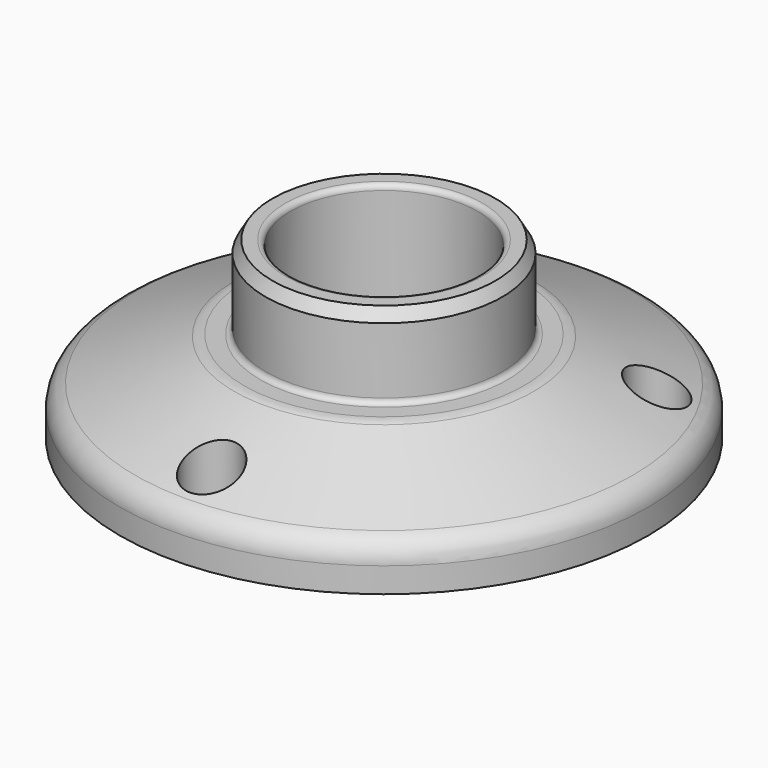
from build123d import *

# Parameters (mm, degrees)
F3_SIZE2 = 1.3198227154
F3_SIZE  = 2.286
F4_R     = 3.1115
F5_DEPTH = 33.3512
F7_R     = 5.1816
F8_DEPTH = 29.3888


with BuildPart() as f2:
    # F0 (on Front) → F2 (revolve)
    with BuildSketch(Plane.XZ):
        with BuildLine():
            Line((-50.419, 0), (-28.8671, 0))
            ThreePointArc((-28.8671, 0), (-27.2506538982, 0.6695538982), (-26.5811, 2.286))
            Line((-26.5811, 2.286), (-26.5811, 8.509))
            ThreePointArc((-26.5811, 8.509), (-26.2835204897, 9.2274204897), (-25.5651, 9.525))
            Line((-25.5651, 9.525), (-22.5413968422, 9.525))
            ThreePointArc((-22.5413968422, 9.525), (-22.1525904749, 9.602338395), (-21.8229763525, 9.8225795103))
            Line((-21.8229763525, 9.8225795103), (-18.1283795103, 13.5171763525))
            ThreePointArc((-18.1283795103, 13.5171763525), (-17.908138395, 13.8467904749), (-17.8308, 14.2355968422))
            Line((-17.8308, 14.2355968422), (-17.8308, 32.3342))
            ThreePointArc((-17.8308, 32.3342), (-18.1283795103, 33.0526204897), (-18.8468, 33.3502))
            Line((-18.8468, 33.3502), (-22.606, 33.3502))
            Line((-22.606, 33.3502), (-22.606, 18.4912))
            ThreePointArc((-22.606, 18.4912), (-22.9035795103, 17.7727795103), (-23.622, 17.4752))
            Line((-23.622, 17.4752), (-26.726038094, 17.4752))
            ThreePointArc((-26.726038094, 17.4752), (-27.6671711788, 17.3815385886), (-28.5713852432, 17.1042285294))
            Line((-28.5713852432, 17.1042285294), (-47.4891471492, 9.1777919766))
            ThreePointArc((-47.4891471492, 9.1777919766), (-49.6196292686, 7.4184295434), (-50.419, 4.7735634472))
            Line((-50.419, 4.7735634472), (-50.419, 0))
        make_face()
    revolve(axis=Axis((0, 0, 16.6751), (0, 0, 1)))

    # F3
    f3_edges = [f2.edges().sort_by_distance(p)[0] for p in [
        (22.606, 0, 33.3502),
    ]]
    f3_side = f2.faces().sort_by_distance((22.606, 0, 25.9207))[0]
    chamfer(f3_edges, length=F3_SIZE, length2=F3_SIZE2, reference=f3_side)

    # F4 (on face) → F5 (cut, through all)
    with BuildSketch(Plane(origin=(0, 0, 0), x_dir=(1, 0, 0), z_dir=(0, 0, -1))):
        with Locations((35.6108, -20.5599049661)):
            Circle(F4_R)
        with Locations((-35.6108, -20.5599049661)):
            Circle(F4_R)
        with Locations((0, 41.1198099321)):
            Circle(F4_R)
    extrude(amount=-F5_DEPTH, mode=Mode.SUBTRACT)

    # F7 (on offset) → F8 (cut, through all)
    with BuildSketch(Plane.XY.offset(3.9624)):
        with Locations((0, -41.1198099321)):
            Circle(F7_R)
        with Locations((35.6108, 20.5599049661)):
            Circle(F7_R)
        with Locations((-35.6108, 20.5599049661)):
            Circle(F7_R)
    extrude(amount=F8_DEPTH, mode=Mode.SUBTRACT)


solid = f2.part
